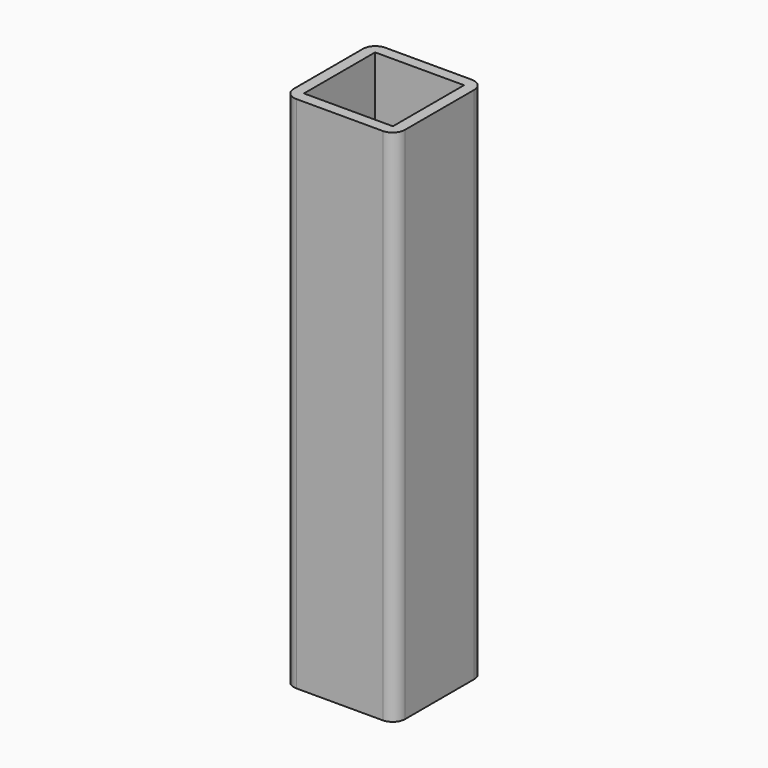
from build123d import *

# Parameters (mm, degrees)
F0_W     = 9
F0_H     = 9
F1_DEPTH = 42
F2_R     = 1
F3_W     = 7.2
F3_H     = 7.2
F4_DEPTH = 41
F5_R     = 0.5


with BuildPart() as f1:
    # F0 (on Top) → F1 (new body)
    with BuildSketch(Plane.XY):
        Rectangle(F0_W, F0_H)
    extrude(amount=F1_DEPTH)

    # F2
    f2_edges = [f1.edges().sort_by_distance(p)[0] for p in [
        (-4.5, -4.5, 21),
        (4.5, -4.5, 21),
        (4.5, 4.5, 21),
        (-4.5, 4.5, 21),
    ]]
    fillet(f2_edges, radius=F2_R)

    # F3 (on face) → F4 (cut)
    with BuildSketch(Plane.XY.offset(42)):
        Rectangle(F3_W, F3_H)
    extrude(amount=-F4_DEPTH, mode=Mode.SUBTRACT)

    # F5
    f5_edges = [f1.edges().sort_by_distance(p)[0] for p in [
        (0, 3.6, 1),
        (-3.6, 0, 1),
        (3.6, 0, 1),
        (0, -3.6, 1),
    ]]
    fillet(f5_edges, radius=F5_R)


solid = f1.part
